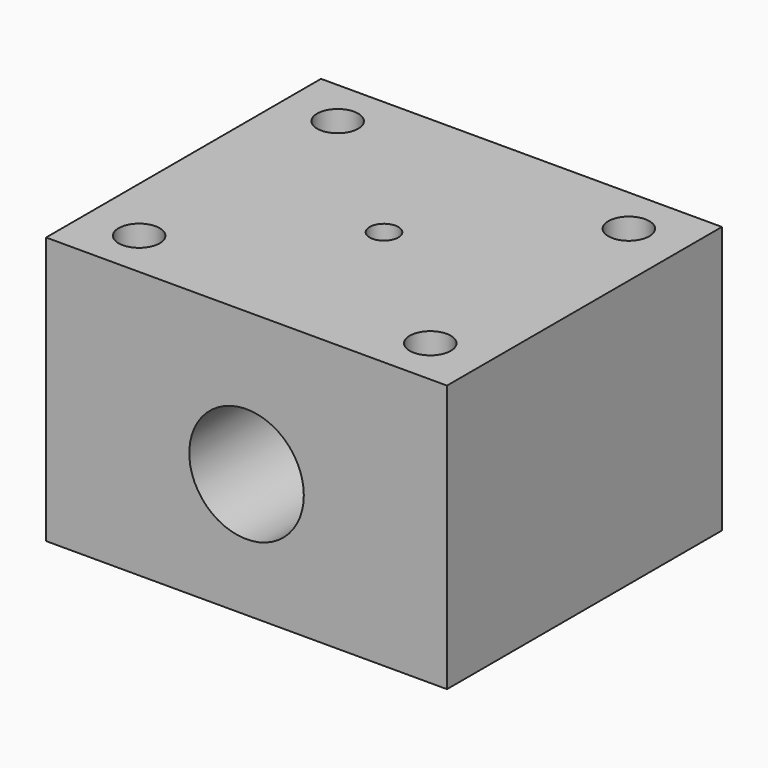
from build123d import *

# Parameters (mm, degrees)
F0_W     = 42
F0_H     = 36
F0_R     = 2.15
F1_DEPTH = 28
F2_R     = 6
F3_DEPTH = 36
F4_R     = 1.5
F5_DEPTH = 5


with BuildPart() as f1:
    # F0 (on Top) → F1 (new body)
    with BuildSketch(Plane.XY):
        Rectangle(F0_W, F0_H)
        with Locations((-15.25, -13)):
            Circle(F0_R, mode=Mode.SUBTRACT)
        with Locations((15.25, -13)):
            Circle(F0_R, mode=Mode.SUBTRACT)
        with Locations((-15.25, 13)):
            Circle(F0_R, mode=Mode.SUBTRACT)
        with Locations((15.25, 13)):
            Circle(F0_R, mode=Mode.SUBTRACT)
    extrude(amount=-F1_DEPTH)

    # F2 (on face) → F3 (cut)
    with BuildSketch(Plane.XZ.offset(18)):
        with Locations((0, -15)):
            Circle(F2_R)
    extrude(amount=-F3_DEPTH, mode=Mode.SUBTRACT)

    # F4 (on face) → F5 (cut)
    with BuildSketch(Plane.XY):
        Circle(F4_R)
    extrude(amount=-F5_DEPTH, mode=Mode.SUBTRACT)


solid = f1.part
